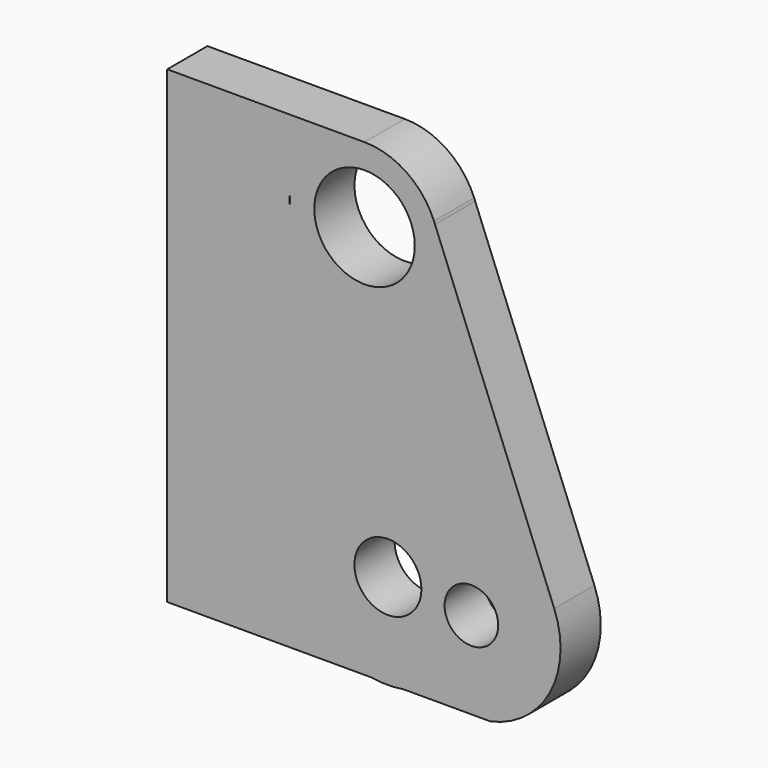
from build123d import *

# Parameters (mm, degrees)
F0_R     = 20
F0_R_2   = 16
F0_R_3   = 30
F1_DEPTH = 30


with BuildPart() as f1:
    # F0 (on Front) → F1 (new body)
    with BuildSketch(Plane.XZ):
        with BuildLine():
            Line((57.179358, 216.494742), (-60.600481, 216.494742))
            Line((-60.600481, 216.494742), (-60.600481, -63.505258))
            Line((-60.600481, -63.505258), (7.520599, -63.505258))
            Line((7.520599, -63.505258), (58.176437, -63.505258))
            Line((58.176437, -63.505258), (61.640235, -63.505258))
            ThreePointArc((61.640235, -63.505258), (27.911346, -44.351415), (14.340876, -8.014795))
            Line((14.340876, -8.014795), (12.77445, 166.592886))
            ThreePointArc((12.77445, 166.592886), (12.473491, 171.386014), (12.68841, 176.18377))
            ThreePointArc((12.68841, 176.18377), (27.160951, 204.918189), (57.179358, 216.494742))
        make_face()
        with BuildLine():
            ThreePointArc((98.646262, 188.498488), (82.195824, 208.840441), (57.179358, 216.494742))
            ThreePointArc((57.179358, 216.494742), (27.160951, 204.918189), (12.68841, 176.18377))
            Line((12.68841, 176.18377), (12.77445, 166.592886))
            Line((12.77445, 166.592886), (14.340876, -8.014795))
            ThreePointArc((14.340876, -8.014795), (27.911346, -44.351415), (61.640235, -63.505258))
            Line((61.640235, -63.505258), (80.636496, -63.505258))
            Line((80.636496, -63.505258), (132.381109, -63.505258))
            ThreePointArc((132.381109, -63.505258), (168.001141, -36.462478), (170.434949, 8.193711))
            Line((170.434949, 8.193711), (99.25581, 186.898251))
            Line((99.25581, 186.898251), (98.646262, 188.498488))
        make_face()
        with Locations((71.138366, -7.505258)):
            Circle(F0_R, mode=Mode.SUBTRACT)
        with Locations((120.978109, -11.505258)):
            Circle(F0_R_2, mode=Mode.SUBTRACT)
        with Locations((57.179358, 171.787076)):
            Circle(F0_R_3, mode=Mode.SUBTRACT)
        with BuildLine():
            ThreePointArc((99.25581, 186.898251), (98.958698, 187.701288), (98.646262, 188.498488))
            Line((98.646262, 188.498488), (99.25581, 186.898251))
        make_face()
        with BuildLine():
            Line((80.636496, -63.505258), (61.640235, -63.505258))
            ThreePointArc((61.640235, -63.505258), (71.138366, -64.305033), (80.636496, -63.505258))
        make_face()
    extrude(amount=F1_DEPTH)


solid = f1.part
